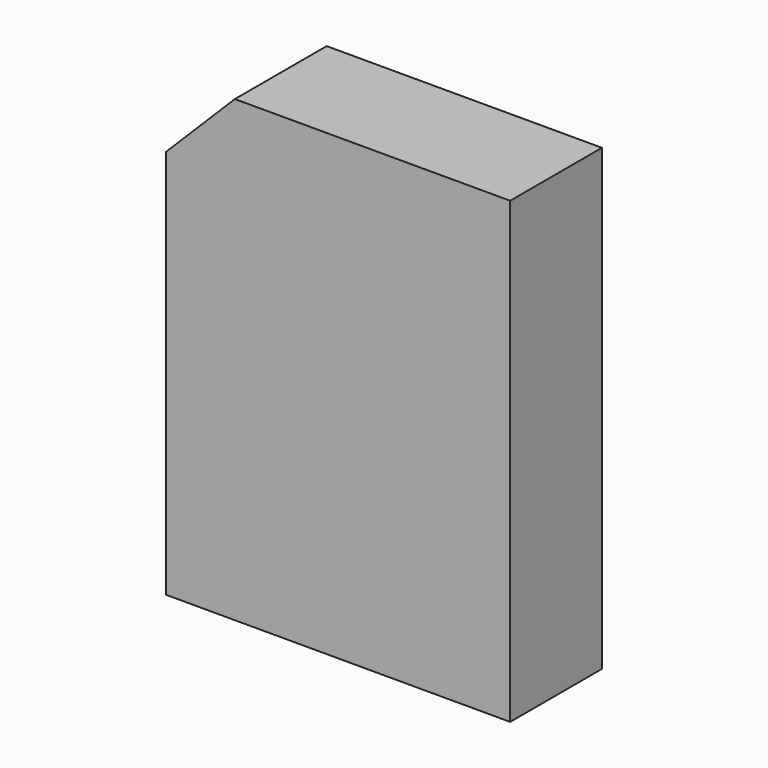
from build123d import *

# Parameters (mm, degrees)
F0_W     = 30
F0_H     = 40
F1_DEPTH = 10
F2_SIZE  = 6
F4_D     = 4.2
F4_DEPTH = 14
F4_TIP   = 1.2618073


with BuildPart() as f1:
    # F0 (on Front) → F1 (new body)
    with BuildSketch(Plane.XZ):
        Rectangle(F0_W, F0_H)
    extrude(amount=F1_DEPTH)

    # F2
    f2_edges = [f1.edges().sort_by_distance(p)[0] for p in [
        (-15, -5, 20),
    ]]
    chamfer(f2_edges, length=F2_SIZE)

    # F4
    with Locations(Plane(origin=(0, 0, -20), x_dir=(1, 0, 0), z_dir=(0, 0, -1))):
        with Locations((7.5, 5), (-7.5, 5)):
            Hole(F4_D / 2, depth=F4_DEPTH)
            with Locations((0, 0, -(F4_DEPTH + F4_TIP / 2))):  # 118° drill point
                Cone(0, F4_D / 2, F4_TIP, mode=Mode.SUBTRACT)


solid = f1.part
